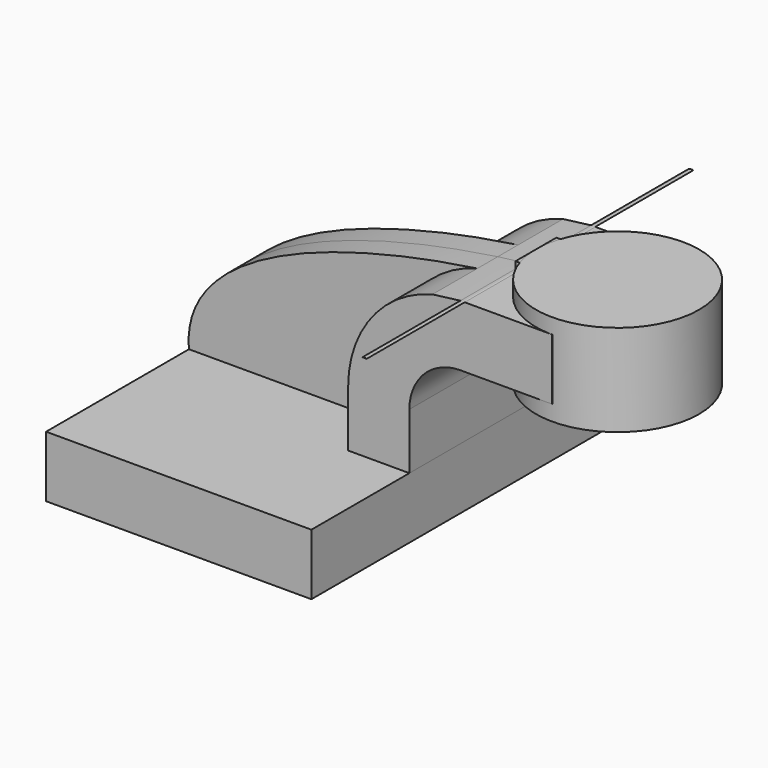
from build123d import *

# Parameters (mm, degrees)
F1_DEPTH = 63.5
F0_W     = 25.4
F0_H     = 19.05
F2_DEPTH = 25.4
F0_H_2   = 4.7498
F3_DEPTH = 7.9375
F0_H_3   = 4.7752


with BuildPart() as f1:
    # F0 (on Front) → F1 (new body, symmetric)
    with BuildSketch(Plane.XZ):
        with BuildLine():
            add(Edge.make_bspline(
                [(58.4800951183, 61.9252), (58.1913139835, 62.0191193038), (58.1678682987, 62.0313959239), (57.15, 61.9252)],
                knots=[0, 0, 0, 0, 0.0984641392, 0.0984641392, 0.0984641392, 0.0984641392], degree=3))
            Line((57.15, 61.9252), (58.4800951183, 61.9252))
        make_face()
    extrude(amount=F1_DEPTH, both=True)


with BuildPart() as f1b:
    # F0 (on Front) → F1, piece 2 (new body, symmetric)
    with BuildSketch(Plane.XZ):
        Polygon((-41.275, -9.525), (41.275, -9.525), (41.275, 9.525), (22.225, 9.525), (-41.275, 9.525), align=None)
    extrude(amount=F1_DEPTH, both=True)


with BuildPart() as f2:
    # F0 (on Front) → F2 (new body, symmetric)
    with BuildSketch(Plane.XZ):
        with BuildLine():
            Line((22.225, 9.525), (41.275, 9.525))
            Line((41.275, 9.525), (41.275, 27.0002))
            ThreePointArc((41.275, 27.0002), (45.9246798487, 38.2255201513), (57.15, 42.8752))
            Line((57.15, 42.8752), (60.325, 42.8752))
            Line((60.325, 42.8752), (60.325, 61.9252))
            Line((60.325, 61.9252), (58.4800951183, 61.9252))
            Line((58.4800951183, 61.9252), (57.15, 61.9252))
            add(Edge.make_bspline(
                [(57.15, 61.9252), (55.8061602558, 61.784994923), (52.728984431, 61.4382853557), (48.4570208745, 60.8260442455)],
                knots=[0.0984641392, 0.0984641392, 0.0984641392, 0.0984641392, 0.2284613341, 0.2284613341, 0.2284613341, 0.2284613341], degree=3))
            ThreePointArc((48.4570208745, 60.8260442455), (29.5514681463, 48.402925633), (22.225, 27.0002))
            Line((22.225, 27.0002), (22.225, 9.525))
        make_face()
        with Locations((73.025, 52.4002)):
            Rectangle(F0_W, F0_H)
    extrude(amount=F2_DEPTH, both=True)


with BuildPart() as f3:
    # F0 (on Front) → F3 (new body, symmetric)
    with BuildSketch(Plane.XZ):
        with Locations((73.025, 64.3001)):
            Rectangle(F0_W, F0_H_2)
    extrude(amount=F3_DEPTH, both=True)


with BuildPart() as f3b:
    # F0 (on Front) → F3, piece 2 (new body, symmetric)
    with BuildSketch(Plane.XZ):
        with Locations((73.025, 40.4876)):
            Rectangle(F0_W, F0_H_3)
    extrude(amount=F3_DEPTH, both=True)


with BuildPart() as f3c:
    # F0 (on Front) → F3, piece 3 (new body, symmetric)
    with BuildSketch(Plane.XZ):
        with BuildLine():
            add(Edge.make_bspline(
                [(48.4570208745, 60.8260442455), (23.1027425397, 57.1923682297), (-44.3375874156, 44.2054205609), (-41.275, 9.525)],
                knots=[0.2284613341, 0.2284613341, 0.2284613341, 0.2284613341, 1, 1, 1, 1], degree=3))
            Line((-41.275, 9.525), (22.225, 9.525))
            Line((22.225, 9.525), (22.225, 27.0002))
            ThreePointArc((22.225, 27.0002), (29.5514681463, 48.402925633), (48.4570208745, 60.8260442455))
        make_face()
    extrude(amount=F3_DEPTH, both=True)


with BuildPart() as f4:
    # F0 (on Front) → F4 (revolve)
    with BuildSketch(Plane.XZ):
        Polygon((85.725, 61.9252), (85.725, 42.8752), (85.725, 38.1), (111.125, 38.1), (111.125, 66.675), (85.725, 66.675), align=None)
    revolve(axis=Axis((85.725, 0, 52.3875), (0, 0, -1)))


solid = Compound([f1.part, f1b.part, f2.part, f3.part, f3b.part, f3c.part, f4.part])
